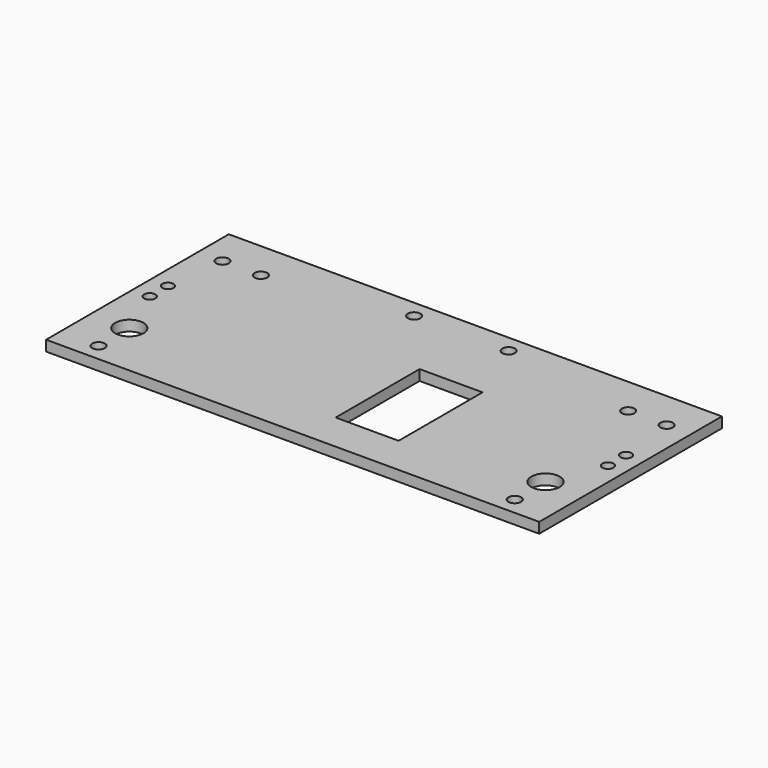
from build123d import *

# Parameters (mm, degrees)
SKETCH_W   = 141
SKETCH_H   = 65.3
SKETCH_R   = 4.05
SKETCH_R_2 = 1.8
SKETCH_R_3 = 1.6
SKETCH_W_2 = 18
SKETCH_H_2 = 30
PAD_DEPTH  = 3


with BuildPart() as part:
    # Sketch → Pad (new body)
    with BuildSketch(Plane.XY):
        with Locations((-70.5, 32.65)):
            Rectangle(SKETCH_W, SKETCH_H)
        with Locations((-130, 16)):
            Circle(SKETCH_R, mode=Mode.SUBTRACT)
        with Locations((-11, 16)):
            Circle(SKETCH_R, mode=Mode.SUBTRACT)
        with Locations((-134, 54.3)):
            Circle(SKETCH_R_2, mode=Mode.SUBTRACT)
        with Locations((-123, 54.3)):
            Circle(SKETCH_R_2, mode=Mode.SUBTRACT)
        with Locations((-18, 54.3)):
            Circle(SKETCH_R_2, mode=Mode.SUBTRACT)
        with Locations((-7, 54.3)):
            Circle(SKETCH_R_2, mode=Mode.SUBTRACT)
        with Locations((-5, 37.3)):
            Circle(SKETCH_R_3, mode=Mode.SUBTRACT)
        with Locations((-5, 30.8)):
            Circle(SKETCH_R_3, mode=Mode.SUBTRACT)
        with Locations((-136, 37.3)):
            Circle(SKETCH_R_3, mode=Mode.SUBTRACT)
        with Locations((-136, 30.8)):
            Circle(SKETCH_R_3, mode=Mode.SUBTRACT)
        with Locations((-84, 60.3)):
            Circle(SKETCH_R_2, mode=Mode.SUBTRACT)
        with Locations((-57, 60.3)):
            Circle(SKETCH_R_2, mode=Mode.SUBTRACT)
        with Locations((-130, 5)):
            Circle(SKETCH_R_2, mode=Mode.SUBTRACT)
        with Locations((-11, 5)):
            Circle(SKETCH_R_2, mode=Mode.SUBTRACT)
        with Locations((-58, 26)):
            Rectangle(SKETCH_W_2, SKETCH_H_2, mode=Mode.SUBTRACT)
    extrude(amount=PAD_DEPTH)


solid = part.part
